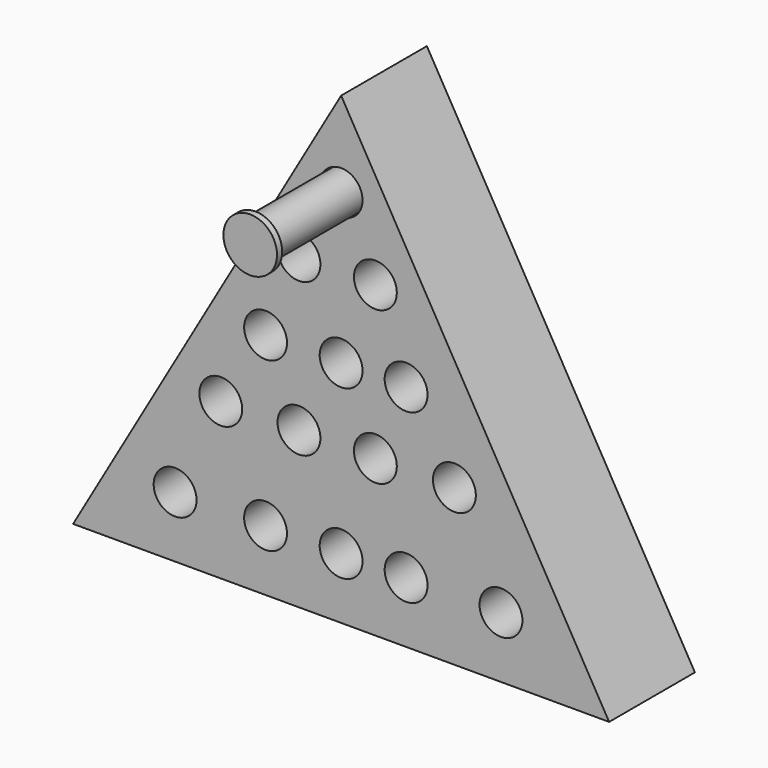
from build123d import *

# Parameters (mm, degrees)
F1_DEPTH = 25.4
F2_R     = 5.08
F3_DEPTH = 17.78
F4_R     = 4.826
F5_DEPTH = 43.18
F6_R     = 6.35
F7_DEPTH = 1.524


with BuildPart() as f1:
    # F0 (on Front) → F1 (new body)
    with BuildSketch(Plane.XZ):
        Polygon((63.5, -54.21753), (0, 55.767696), (-63.5, -54.21753), align=None)
    extrude(amount=F1_DEPTH)

    # F2 (on face) → F3 (cut)
    with BuildSketch(Plane.XZ.offset(25.4)):
        with Locations((0, 35.58312)):
            Circle(F2_R)
        with Locations((-9.988246, 18.936047)):
            Circle(F2_R)
        with Locations((8.115448, 18.936047)):
            Circle(F2_R)
        with Locations((-17.895607, 0)):
            Circle(F2_R)
        Circle(F2_R)
        with Locations((15.398542, 0)):
            Circle(F2_R)
        with Locations((-28.508116, -17.27134)):
            Circle(F2_R)
        with Locations((-9.988246, -17.27134)):
            Circle(F2_R)
        with Locations((8.115448, -17.27134)):
            Circle(F2_R)
        with Locations((26.843408, -17.27134)):
            Circle(F2_R)
        with Locations((-39.328713, -39.744888)):
            Circle(F2_R)
        with Locations((-17.895607, -39.744888)):
            Circle(F2_R)
        with Locations((0, -39.744888)):
            Circle(F2_R)
        with Locations((15.398542, -39.744888)):
            Circle(F2_R)
        with Locations((37.872095, -39.744888)):
            Circle(F2_R)
    extrude(amount=-F3_DEPTH, mode=Mode.SUBTRACT)


with BuildPart() as f5:
    # F4 (on face) → F5 (new body)
    with BuildSketch(Plane.XZ.offset(7.62)):
        with Locations((0, 35.58312)):
            Circle(F4_R)
    extrude(amount=F5_DEPTH)

    # F6 (on face) → F7 (join)
    with BuildSketch(Plane.XZ.offset(50.8)):
        with Locations((0, 35.58312)):
            Circle(F6_R)
    extrude(amount=F7_DEPTH)


solid = Compound([f1.part, f5.part])
